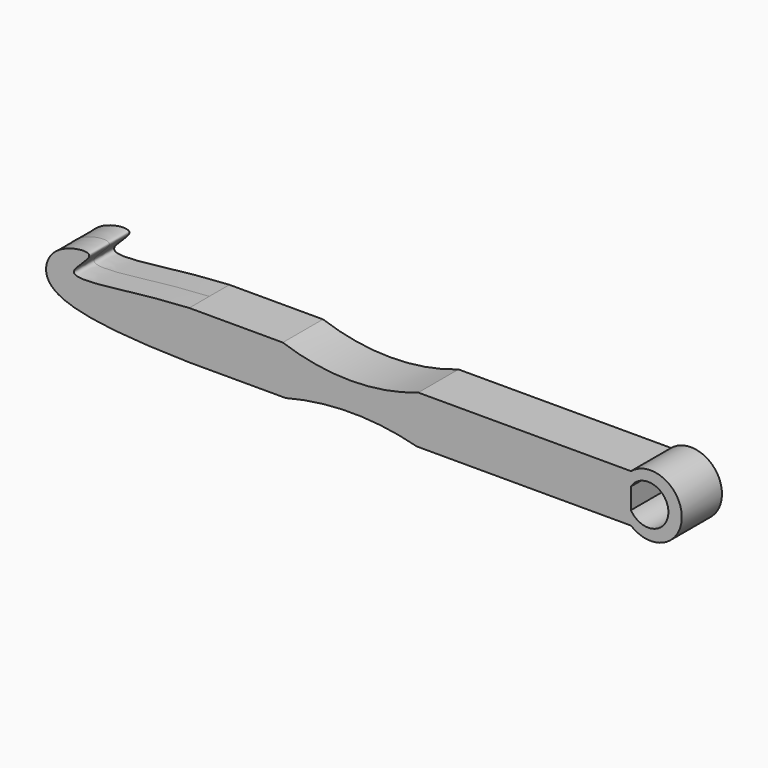
from build123d import *

# Parameters (mm, degrees)
F1_DEPTH = 10.16


with BuildPart() as f1:
    # F0 (on Front) → F1 (new body, symmetric)
    with BuildSketch(Plane.XZ):
        with BuildLine():
            add(Edge.make_bspline(
                [(-64.4986256957, -19.3917434663), (-85.1022544932, -18.9456305292), (-113.1142158748, -17.3002717096), (-124.5794290412, -7.0952567277), (-119.438714439, 5.4886448937), (-98.4296966223, 8.1966670728), (-118.554705317, -5.4819380662), (-90.2828527528, -2.3325174538), (-73.856276484, -0.4332414316), (-64.4986256957, 0)],
                knots=[0, 0, 0, 0, 0.2360622038, 0.3471410595, 0.4605150396, 0.5757404102, 0.6803064526, 0.8178971558, 1, 1, 1, 1], degree=3))
            Line((-64.4986256957, -19.3917434663), (-64.4986256957, 0))
        make_face()
        with BuildLine():
            Line((-64.4986256957, 0), (-64.4986256957, -19.3917434663))
            Line((-64.4986256957, -19.3917434663), (-25.4460107535, -19.3917434663))
            ThreePointArc((-25.4460107535, -19.3917434663), (1.0837959126, -15.9489366296), (27.6136025786, -19.3917434663))
            Line((27.6136025786, -19.3917434663), (114.2426654696, -19.3917434663))
            Line((114.2426654696, -19.3917434663), (114.2426654696, -13.9114679769))
            Line((114.2426654696, -13.9114679769), (114.2426654696, -5.4802745581))
            Line((114.2426654696, -5.4802745581), (114.2426654696, 0))
            Line((114.2426654696, 0), (28.2097738236, 0))
            ThreePointArc((28.2097738236, 0), (0.7857065648, -4.6546399613), (-26.6383606941, 0))
            Line((-26.6383606941, 0), (-64.4986256957, 0))
        make_face()
        with BuildLine():
            Line((114.2426654696, -13.9114679769), (114.2426654696, -19.3917434663))
            ThreePointArc((114.2426654696, -19.3917434663), (134.8286442595, -9.6958717331), (114.2426654696, 0))
            Line((114.2426654696, 0), (114.2426654696, -5.4802745581))
            ThreePointArc((114.2426654696, -5.4802745581), (129.3989342853, -9.6958712675), (114.2426654696, -13.9114679769))
        make_face()
    extrude(amount=F1_DEPTH, both=True)


solid = f1.part
